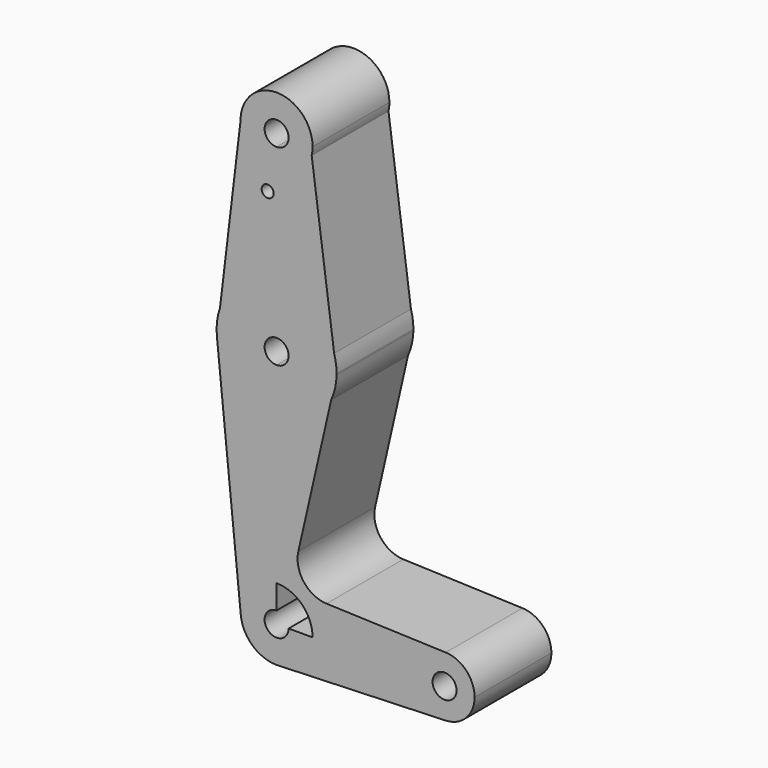
from build123d import *

# Parameters (mm, degrees)
F0_R     = 1.5875
F1_DEPTH = 25.4


with BuildPart() as f1:
    # F0 (on Front) → F1 (new body)
    with BuildSketch(Plane.XZ):
        with BuildLine():
            ThreePointArc((0, 9.525), (-7.063929059, 6.3895642457), (-9.4772553384, -0.9525))
            ThreePointArc((-9.4772553384, -0.9525), (-6.3895642457, -7.063929059), (0, -9.525))
            Line((0, -9.525), (0.6773435479, -9.500885786))
            ThreePointArc((0.6773435479, -9.500885786), (6.9705567315, -6.4912990883), (9.525, 0))
            Line((9.525, 0), (3.175, 0))
            ThreePointArc((3.175, 0), (-2.2450640303, -2.2450640303), (0, 3.175))
            Line((0, 3.175), (0, 9.525))
        make_face()
        with BuildLine():
            Line((-15.7954255641, 61.9125), (-9.4772553384, -0.9525))
            ThreePointArc((-9.4772553384, -0.9525), (-7.063929059, 6.3895642457), (0, 9.525))
            Line((0, 9.525), (0, 47.625))
            ThreePointArc((0, 47.625), (-10.6492737428, 51.7267849017), (-15.7954255641, 61.9125))
        make_face()
        with BuildLine():
            Line((0.6773435479, -9.500885786), (0, -9.525))
            ThreePointArc((0, -9.525), (0.3388863295, -9.5189695375), (0.6773435479, -9.500885786))
        make_face()
        with BuildLine():
            Line((0, 47.625), (0, 9.525))
            ThreePointArc((0, 9.525), (6.7351920908, 6.7351920908), (9.525, 0))
            Line((9.525, 0), (36.5125, 0))
            ThreePointArc((36.5125, 0), (38.9380895153, 5.7116327839), (44.7324052746, 7.9324746146))
            Line((44.7324052746, 7.9324746146), (13.2108551379, 9.0546782715))
            ThreePointArc((13.2108551379, 9.0546782715), (7.1911937291, 12.1538217133), (5.742542983, 18.767627317))
            Line((5.742542983, 18.767627317), (14.4405270392, 56.9055474959))
            ThreePointArc((14.4405270392, 56.9055474959), (8.5827935865, 50.145177678), (0, 47.625))
        make_face()
        with BuildLine():
            Line((-14.9746534016, 68.7702353365), (-15.7954255641, 61.9125))
            ThreePointArc((-15.7954255641, 61.9125), (-10.6492737428, 51.7267849017), (0, 47.625))
            Line((0, 47.625), (0, 60.325))
            ThreePointArc((0, 60.325), (-3.175, 63.5), (0, 66.675))
            Line((0, 66.675), (0, 79.375))
            ThreePointArc((0, 79.375), (-9.1747108683, 76.4553195825), (-14.9746534016, 68.7702353365))
        make_face()
        with BuildLine():
            ThreePointArc((-14.9746534016, 68.7702353365), (-15.7625053013, 65.3865448909), (-15.7954255641, 61.9125))
            Line((-15.7954255641, 61.9125), (-14.9746534016, 68.7702353365))
        make_face()
        with BuildLine():
            ThreePointArc((9.525, 0), (6.9705567315, -6.4912990883), (0.6773435479, -9.500885786))
            Line((0.6773435479, -9.500885786), (44.7324052746, -7.9324746146))
            ThreePointArc((44.7324052746, -7.9324746146), (38.9380895153, -5.7116327839), (36.5125, 0))
            Line((36.5125, 0), (9.525, 0))
        make_face()
        with BuildLine():
            Line((0, 60.325), (0, 47.625))
            ThreePointArc((0, 47.625), (8.5827935865, 50.145177678), (14.4405270392, 56.9055474959))
            Line((14.4405270392, 56.9055474959), (15.8717991204, 63.1812247139))
            Line((15.8717991204, 63.1812247139), (15.2237290867, 68.0004108363))
            ThreePointArc((15.2237290867, 68.0004108363), (9.5018841019, 76.2173040977), (0, 79.375))
            Line((0, 79.375), (0, 66.675))
            ThreePointArc((0, 66.675), (2.2450640303, 65.7450640303), (3.175, 63.5))
            ThreePointArc((3.175, 63.5), (2.2450640303, 61.2549359697), (0, 60.325))
        make_face()
        with BuildLine():
            Line((-9.524999423, 114.3033154892), (-14.9746534016, 68.7702353365))
            ThreePointArc((-14.9746534016, 68.7702353365), (-9.1747108683, 76.4553195825), (0, 79.375))
            Line((0, 79.375), (0, 100.0252))
            Line((0, 100.0252), (0, 104.775))
            ThreePointArc((0, 104.775), (-6.7363641912, 107.5659802137), (-9.524999423, 114.3033154892))
        make_face()
        with Locations((-2.3593854516, 100.0478582527)):
            Circle(F0_R, mode=Mode.SUBTRACT)
        with BuildLine():
            ThreePointArc((36.5125, 0), (38.9380895153, -5.7116327839), (44.7324052746, -7.9324746146))
            ThreePointArc((44.7324052746, -7.9324746146), (50.1616327839, -5.5119104847), (52.3875, 0))
            ThreePointArc((52.3875, 0), (50.1616327839, 5.5119104847), (44.7324052746, 7.9324746146))
            ThreePointArc((44.7324052746, 7.9324746146), (38.9380895153, 5.7116327839), (36.5125, 0))
        make_face()
        with BuildLine():
            ThreePointArc((47.625, 0), (44.45, -3.175), (41.275, 0))
            ThreePointArc((41.275, 0), (44.45, 3.175), (47.625, 0))
        make_face(mode=Mode.SUBTRACT)
        with BuildLine():
            Line((15.8717991204, 63.1812247139), (14.4405270392, 56.9055474959))
            ThreePointArc((14.4405270392, 56.9055474959), (15.4775744365, 59.9700829241), (15.8717991204, 63.1812247139))
        make_face()
        with BuildLine():
            Line((0, 100.0252), (0, 79.375))
            ThreePointArc((0, 79.375), (9.5018841019, 76.2173040977), (15.2237290867, 68.0004108363))
            Line((15.2237290867, 68.0004108363), (9.283878963, 112.1703952479))
            ThreePointArc((9.283878963, 112.1703952479), (5.9346920618, 106.8498285166), (0, 104.775))
            Line((0, 104.775), (0, 100.0252))
        make_face()
        with BuildLine():
            Line((-9.2567511899, 116.5445895858), (-9.524999423, 114.3033154892))
            ThreePointArc((-9.524999423, 114.3033154892), (-6.7363641912, 107.5659802137), (0, 104.775))
            ThreePointArc((0, 104.775), (5.9346920618, 106.8498285166), (9.283878963, 112.1703952479))
            ThreePointArc((9.283878963, 112.1703952479), (9.464527778, 113.2283942242), (9.525, 114.3))
            ThreePointArc((9.525, 114.3), (1.13028092, 123.7577000397), (-9.2567511899, 116.5445895858))
        make_face()
        with BuildLine():
            ThreePointArc((3.175, 114.3), (2.2450640303, 112.0549359697), (0, 111.125))
            ThreePointArc((0, 111.125), (-2.2450640303, 116.5450640303), (3.175, 114.3))
        make_face(mode=Mode.SUBTRACT)
        with BuildLine():
            ThreePointArc((-9.2567511899, 116.5445895858), (-9.4575031808, 115.4319269345), (-9.524999423, 114.3033154892))
            Line((-9.524999423, 114.3033154892), (-9.2567511899, 116.5445895858))
        make_face()
        with BuildLine():
            Line((15.2237290867, 68.0004108363), (15.8717991204, 63.1812247139))
            ThreePointArc((15.8717991204, 63.1812247139), (15.8741997599, 63.340604322), (15.875, 63.5))
            ThreePointArc((15.875, 63.5), (15.7113386484, 65.7736452834), (15.2237290867, 68.0004108363))
        make_face()
    extrude(amount=F1_DEPTH)


solid = f1.part
